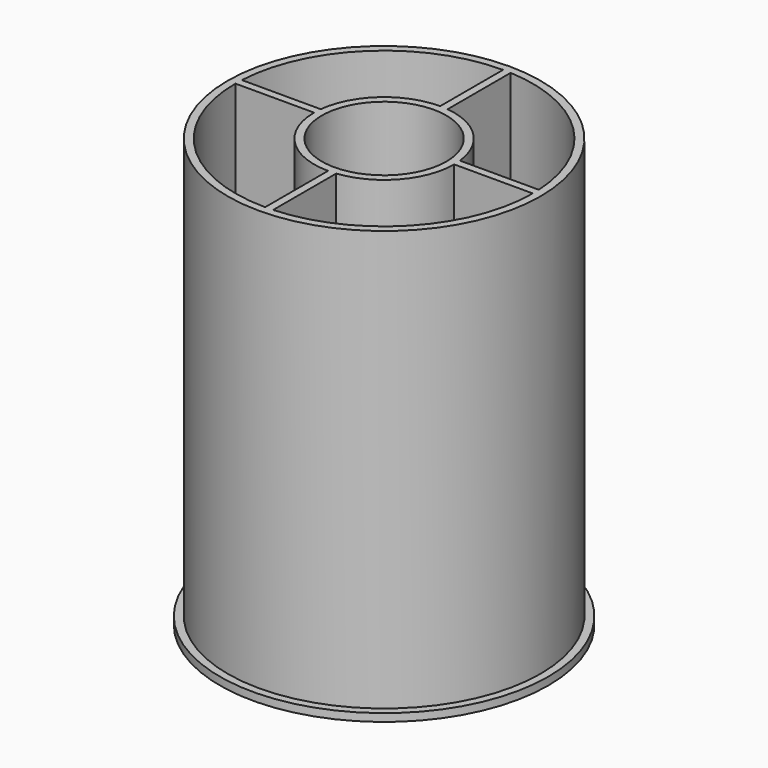
from build123d import *

# Parameters (mm, degrees)
F0_R     = 25.527
F0_R_2   = 10.16
F1_DEPTH = 69.85
F0_R_3   = 26.797
F2_DEPTH = 1.27


with BuildPart() as f1:
    # F0 (on Top) → F1 (new body)
    with BuildSketch(Plane.XY):
        Circle(F0_R)
        with BuildLine():
            ThreePointArc((24.223731, 1.27), (24.248681, 0.635218), (24.257, 0))
            ThreePointArc((24.257, 0), (17.595574, -16.69724), (1.27, -24.223731))
            ThreePointArc((1.27, -24.223731), (0.635218, -24.248681), (0, -24.257))
            ThreePointArc((0, -24.257), (-17.152289, -17.152289), (-24.257, 0))
            ThreePointArc((-24.257, 0), (-24.248681, 0.635218), (-24.223731, 1.27))
            ThreePointArc((-24.223731, 1.27), (-16.69724, 17.595574), (0, 24.257))
            ThreePointArc((0, 24.257), (0.635218, 24.248681), (1.27, 24.223731))
            ThreePointArc((1.27, 24.223731), (17.152289, 17.152289), (24.223731, 1.27))
        make_face(mode=Mode.SUBTRACT)
        with BuildLine():
            ThreePointArc((1.27, -11.359225), (8.519419, -7.62), (11.43, 0))
            ThreePointArc((11.43, 0), (11.412293, 0.635985), (11.359225, 1.27))
            ThreePointArc((11.359225, 1.27), (8.082231, 8.082231), (1.27, 11.359225))
            ThreePointArc((1.27, 11.359225), (0.635985, 11.412293), (0, 11.43))
            ThreePointArc((0, 11.43), (-7.62, 8.519419), (-11.359225, 1.27))
            ThreePointArc((-11.359225, 1.27), (-11.412293, 0.635985), (-11.43, 0))
            ThreePointArc((-11.43, 0), (-8.082231, -8.082231), (0, -11.43))
            ThreePointArc((0, -11.43), (0.635985, -11.412293), (1.27, -11.359225))
        make_face()
        Circle(F0_R_2, mode=Mode.SUBTRACT)
        with BuildLine():
            Line((1.27, 11.359225), (1.27, 24.223731))
            ThreePointArc((1.27, 24.223731), (0.635218, 24.248681), (0, 24.257))
            Line((0, 24.257), (0, 11.43))
            ThreePointArc((0, 11.43), (0.635985, 11.412293), (1.27, 11.359225))
        make_face()
        with BuildLine():
            Line((11.43, 0), (24.257, 0))
            ThreePointArc((24.257, 0), (24.248681, 0.635218), (24.223731, 1.27))
            Line((24.223731, 1.27), (11.359225, 1.27))
            ThreePointArc((11.359225, 1.27), (11.412293, 0.635985), (11.43, 0))
        make_face()
        with BuildLine():
            ThreePointArc((0, -24.257), (0.635218, -24.248681), (1.27, -24.223731))
            Line((1.27, -24.223731), (1.27, -11.359225))
            ThreePointArc((1.27, -11.359225), (0.635985, -11.412293), (0, -11.43))
            Line((0, -11.43), (0, -24.257))
        make_face()
        with BuildLine():
            ThreePointArc((-24.223731, 1.27), (-24.248681, 0.635218), (-24.257, 0))
            Line((-24.257, 0), (-11.43, 0))
            ThreePointArc((-11.43, 0), (-11.412293, 0.635985), (-11.359225, 1.27))
            Line((-11.359225, 1.27), (-24.223731, 1.27))
        make_face()
    extrude(amount=F1_DEPTH)

    # F0 (on Top) → F2 (join)
    with BuildSketch(Plane.XY):
        Circle(F0_R_3)
        Circle(F0_R, mode=Mode.SUBTRACT)
    extrude(amount=F2_DEPTH)


solid = f1.part
